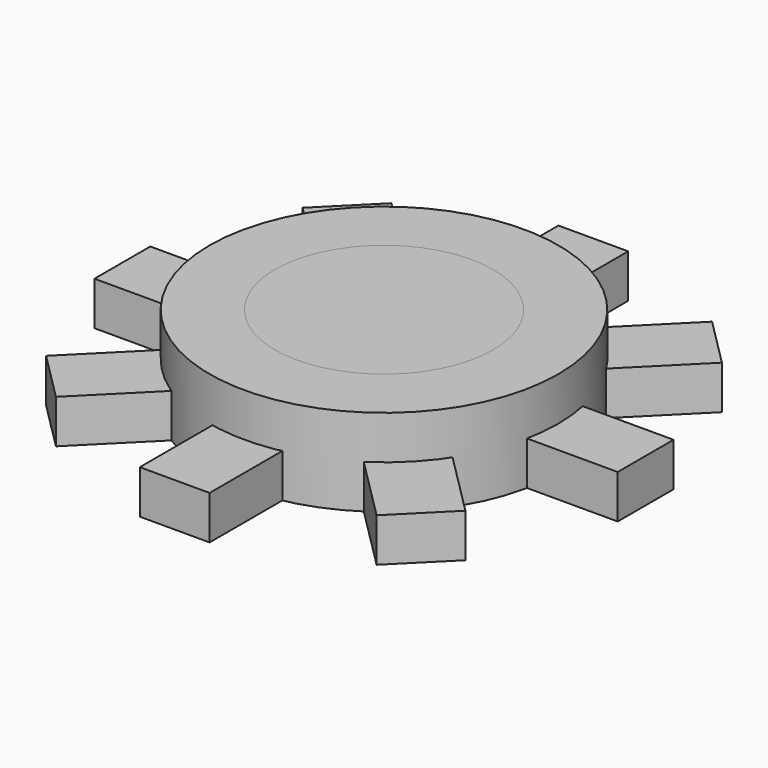
from build123d import *

# Parameters (mm, degrees)
BOX_W                  = 60
BOX_H                  = 8
BOX_DEPTH              = 5
BOX001_W               = 60
BOX001_H               = 8
BOX001_DEPTH           = 5
BOX001_PLACEMENT_ANGLE = 45
BOX002_W               = 60
BOX002_H               = 8
BOX002_DEPTH           = 5
BOX002_PLACEMENT_ANGLE = 315
BOX003_W               = 60
BOX003_H               = 8
BOX003_DEPTH           = 5
CYLINDER_R             = 20
CYLINDER_DEPTH         = 10
CYLINDER001_R          = 12.5
CYLINDER001_DEPTH      = 10


with BuildPart() as cubo:
    # Box → Box (new body)
    with BuildSketch(Plane(origin=(-30, -4, 0), x_dir=(1, 0, 0), z_dir=(0, 0, 1))):
        with Locations((30, 4)):
            Rectangle(BOX_W, BOX_H)
    extrude(amount=BOX_DEPTH)


with BuildPart() as cubo001:
    # Box001 → Box001 (new body)
    with BuildSketch(Plane.XY):
        with Locations((30, 4)):
            Rectangle(BOX001_W, BOX001_H)
    extrude(amount=BOX001_DEPTH)


with BuildPart() as cubo001_1:
    # Box001 placement: moved
    add(cubo001.part.moved(Location((-18.384776, -24.041631, 0))).rotate(Axis((-18.384776, -24.041631, 0), (0, 0, 1)), BOX001_PLACEMENT_ANGLE))


with BuildPart() as cubo002:
    # Box002 → Box002 (new body)
    with BuildSketch(Plane.XY):
        with Locations((30, 4)):
            Rectangle(BOX002_W, BOX002_H)
    extrude(amount=BOX002_DEPTH)


with BuildPart() as cubo002_1:
    # Box002 placement: moved
    add(cubo002.part.moved(Location((-24.041631, 18.384776, 0))).rotate(Axis((-24.041631, 18.384776, 0), (0, 0, 1)), BOX002_PLACEMENT_ANGLE))


with BuildPart() as cubo003:
    # Box003 → Box003 (new body)
    with BuildSketch(Plane(origin=(4, -30, 0), x_dir=(0, 1, 0), z_dir=(0, 0, 1))):
        with Locations((30, 4)):
            Rectangle(BOX003_W, BOX003_H)
    extrude(amount=BOX003_DEPTH)


with BuildPart() as cilindro:
    # Cylinder → Cylinder (new body)
    with BuildSketch(Plane.XY):
        Circle(CYLINDER_R)
    extrude(amount=CYLINDER_DEPTH)


with BuildPart() as cilindro001:
    # Cylinder001 → Cylinder001 (new body)
    with BuildSketch(Plane.XY):
        Circle(CYLINDER001_R)
    extrude(amount=CYLINDER001_DEPTH)


solid = Compound([cubo.part, cubo001_1.part, cubo002_1.part, cubo003.part, cilindro.part, cilindro001.part])
